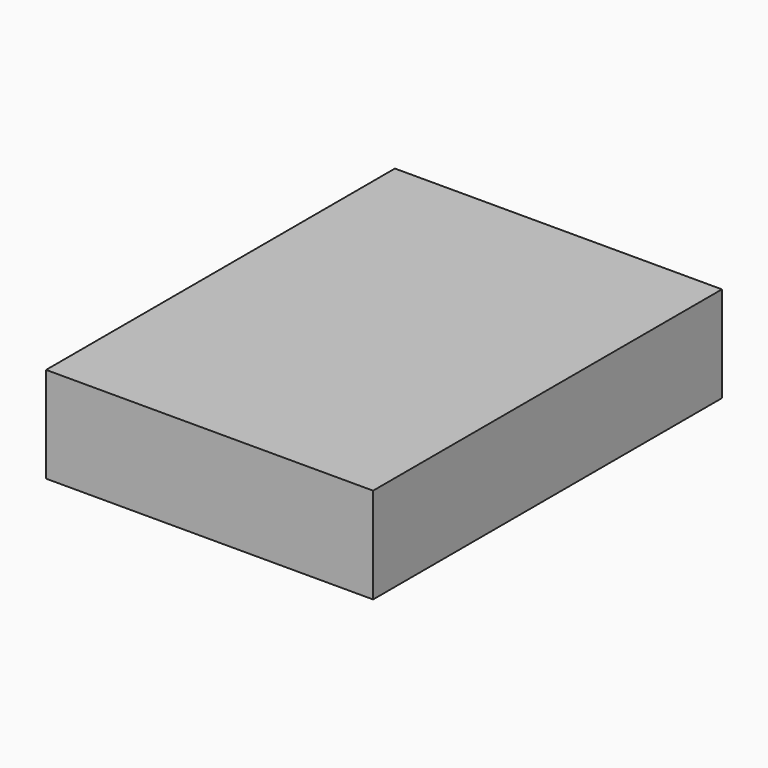
from build123d import *

# Parameters (mm, degrees)
F0_W     = 99
F0_H     = 132
F1_DEPTH = 4
F2_W     = 99
F2_H     = 132
F2_W_2   = 93
F2_H_2   = 127
F3_DEPTH = 25


with BuildPart() as f1:
    # F0 (on Top) → F1 (new body)
    with BuildSketch(Plane.XY):
        Rectangle(F0_W, F0_H)
    extrude(amount=F1_DEPTH)

    # F2 (on face) → F3 (join)
    with BuildSketch(Plane(origin=(0, 0, 0), x_dir=(1, 0, 0), z_dir=(0, 0, -1))):
        Rectangle(F2_W, F2_H)
        Rectangle(F2_W_2, F2_H_2, mode=Mode.SUBTRACT)
    extrude(amount=F3_DEPTH)


solid = f1.part
